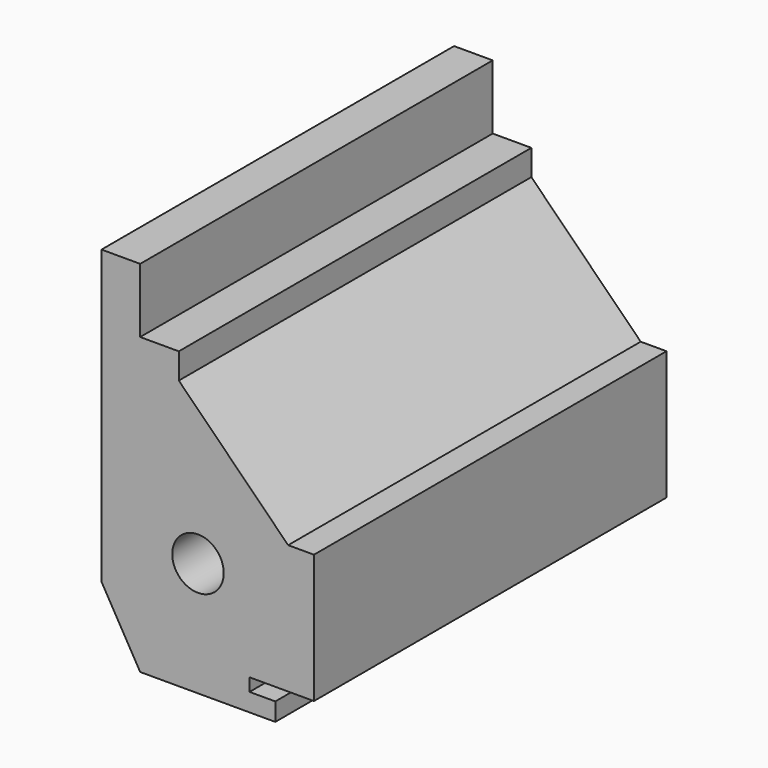
from build123d import *

# Parameters (mm, degrees)
F0_R     = 10
F1_DEPTH = 171


with BuildPart() as f1:
    # F0 (on Front) → F1 (new body)
    with BuildSketch(Plane.XZ):
        Polygon((-0.007541, 139.426407), (-15.007541, 139.426407), (-15.007541, 25.976407), (0, 0), (52.43, 0), (52.43, 7), (42.43, 7), (42.43, 12), (67.43, 12), (67.43, 62), (57.418866, 62), (14.992459, 104.426407), (14.992459, 114.426407), (-0.007541, 114.426407), align=None)
        with Locations((22.43, 44.332159)):
            Circle(F0_R, mode=Mode.SUBTRACT)
    extrude(amount=F1_DEPTH)


solid = f1.part
